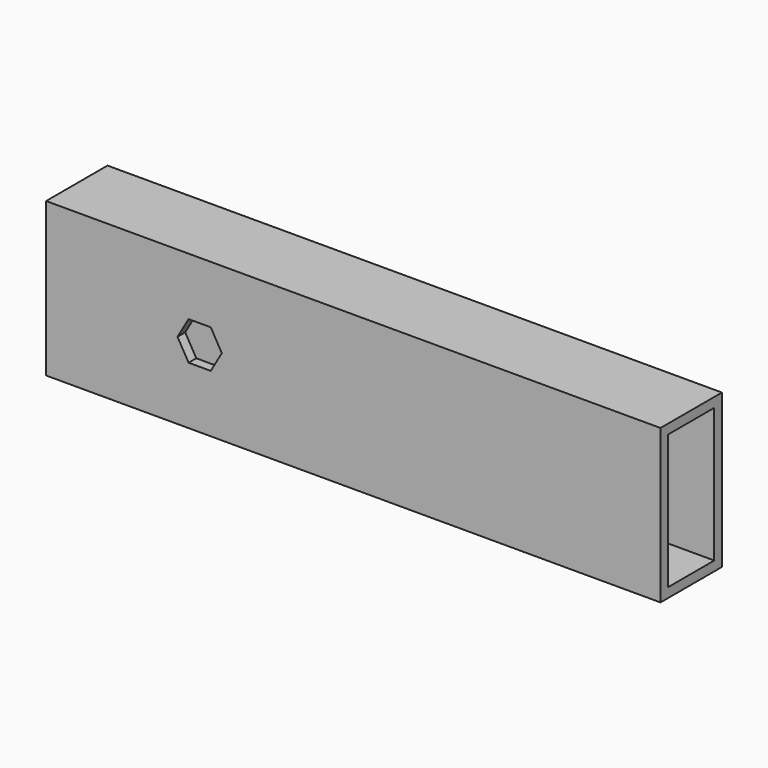
from build123d import *

# Parameters (mm, degrees)
F0_W     = 203.2
F0_H     = 50.8
F1_DEPTH = 25.4
F2_W     = 19.05
F2_H     = 44.45
F3_DEPTH = 304.8
F5_DEPTH = 25.4


with BuildPart() as f1:
    # F0 (on Front) → F1 (new body)
    with BuildSketch(Plane.XZ):
        with Locations((101.6, 25.4)):
            Rectangle(F0_W, F0_H)
    extrude(amount=F1_DEPTH)

    # F2 (on face) → F3 (cut)
    with BuildSketch(Plane(origin=(0, 0, 0), x_dir=(0, -1, 0), z_dir=(-1, 0, 0))):
        with Locations((12.7, 25.4)):
            Rectangle(F2_W, F2_H)
    extrude(amount=-F3_DEPTH, mode=Mode.SUBTRACT)

    # F4 (on face) → F5 (cut)
    with BuildSketch(Plane.XZ.offset(25.4)):
        Polygon((54.466174, 31.75), (47.133826, 31.75), (43.467652, 25.4), (47.133826, 19.05), (54.466174, 19.05), (58.132348, 25.4), align=None)
    extrude(amount=-F5_DEPTH, mode=Mode.SUBTRACT)


solid = f1.part
